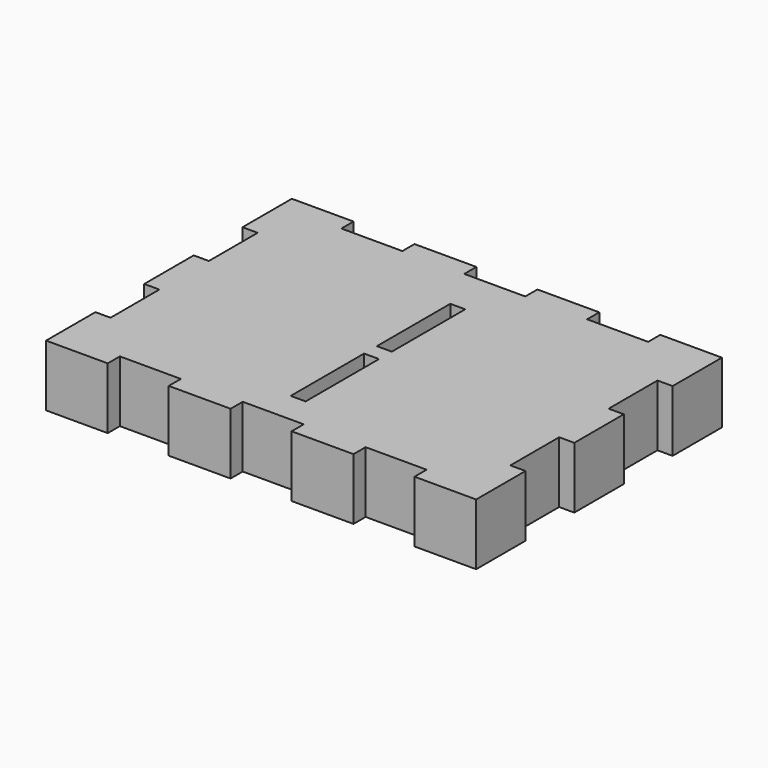
from build123d import *

# Parameters (mm, degrees)
F1_DEPTH = 25.4
F2_W     = 6.1722
F2_H     = 37.9222
F3_DEPTH = 25.401


with BuildPart() as f1:
    # F0 (on Top) → F1 (new body)
    with BuildSketch(Plane.XY):
        Polygon((0, 25.4889), (0, 0), (25.4889, 0), (25.4889, 6.2611), (50.7111, 6.2611), (50.7111, 0), (76.2889, 0), (76.2889, 6.2611), (101.5111, 6.2611), (101.5111, 0), (127.0889, 0), (127.0889, 6.2611), (152.3111, 6.2611), (152.3111, 0), (177.8, 0), (177.8, 25.4889), (171.5389, 25.4889), (171.5389, 50.7111), (177.8, 50.7111), (177.8, 76.2889), (171.5389, 76.2889), (171.5389, 101.5111), (177.8, 101.5111), (177.8, 127), (152.3111, 127), (152.3111, 120.7389), (127.0889, 120.7389), (127.0889, 127), (101.5111, 127), (101.5111, 120.7389), (76.2889, 120.7389), (76.2889, 127), (50.7111, 127), (50.7111, 120.7389), (25.4889, 120.7389), (25.4889, 127), (0, 127), (0, 101.5111), (6.2611, 101.5111), (6.2611, 76.2889), (0, 76.2889), (0, 50.7111), (6.2611, 50.7111), (6.2611, 25.4889), align=None)
    extrude(amount=F1_DEPTH)

    # F2 (on face) → F3 (cut, through all)
    with BuildSketch(Plane.XY.offset(25.4)):
        with Locations((88.9, 82.6389)):
            Rectangle(F2_W, F2_H)
        with Locations((88.9, 38.1)):
            Rectangle(F2_W, F2_H)
    extrude(amount=-F3_DEPTH, mode=Mode.SUBTRACT)


solid = f1.part
